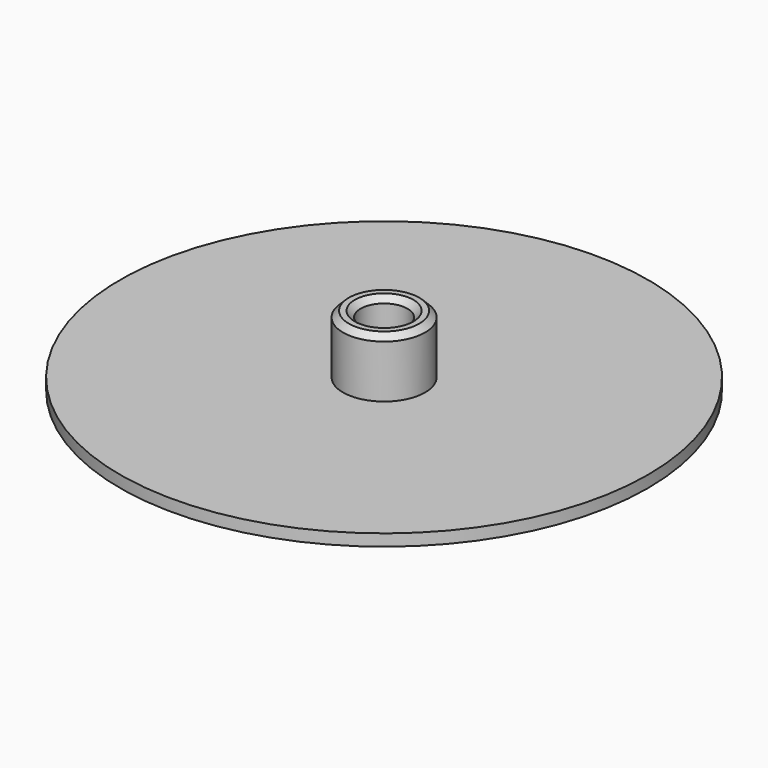
from build123d import *

# Parameters (mm, degrees)
SKETCH_R        = 45
SKETCH_R_2      = 4
PAD_DEPTH       = 2
SKETCH001_R     = 7
SKETCH001_R_2   = 4
PAD001_DEPTH    = 10
CHAMFER_SIZE    = 1
CHAMFER001_SIZE = 1


with BuildPart() as part:
    # Sketch → Pad (new body)
    with BuildSketch(Plane.XY):
        Circle(SKETCH_R)
        Circle(SKETCH_R_2, mode=Mode.SUBTRACT)
    extrude(amount=PAD_DEPTH)

    # Sketch001 (on Face4 of Pad) → Pad001 (join)
    with BuildSketch(Plane.XY.offset(2)):
        Circle(SKETCH001_R)
        Circle(SKETCH001_R_2, mode=Mode.SUBTRACT)
    extrude(amount=PAD001_DEPTH)

    # Chamfer
    chamfer_edges = [part.edges().sort_by_distance(p)[0] for p in [
        (-4, 0, 12),
    ]]
    chamfer(chamfer_edges, length=CHAMFER_SIZE)

    # Chamfer001
    chamfer001_edges = [part.edges().sort_by_distance(p)[0] for p in [
        (-7, 0, 12),
    ]]
    chamfer(chamfer001_edges, length=CHAMFER001_SIZE)


solid = part.part
